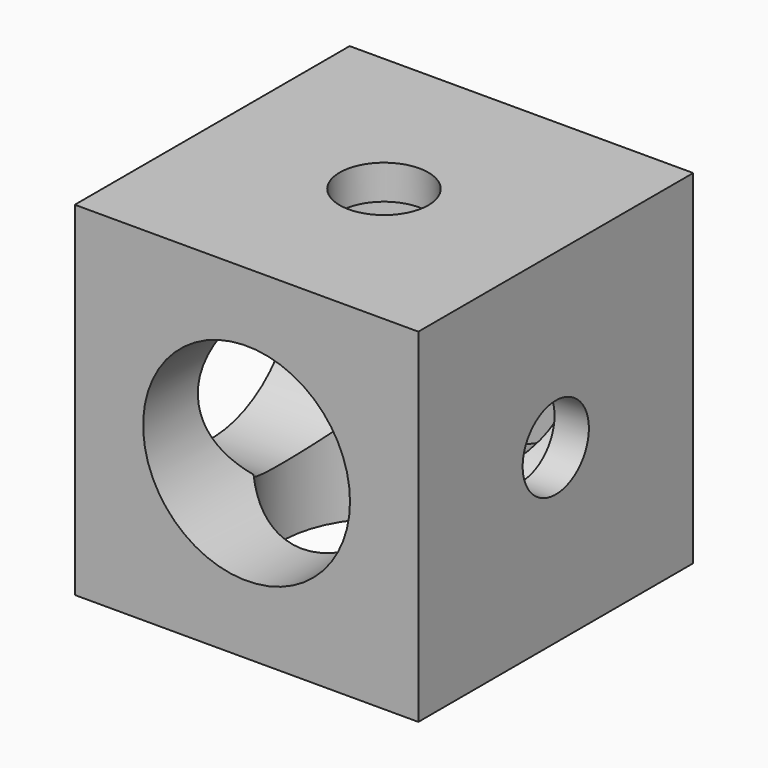
from build123d import *

# Parameters (mm, degrees)
SKETCH039_W     = 20
SKETCH039_H     = 20
PAD018_DEPTH    = 10
SKETCH040_R     = 5.966215
POCKET018_DEPTH = 18
SKETCH041_R     = 2.581292
POCKET019_DEPTH = 2
SKETCH042_R     = 6.020554
POCKET020_DEPTH = 18
SKETCH043_R     = 3.518198
POCKET021_DEPTH = 2
SKETCH044_R     = 6.023017
POCKET022_DEPTH = 18
SKETCH045_R     = 2.40921
POCKET023_DEPTH = 2


with BuildPart() as part:
    # Sketch039 → Pad018 (new body, symmetric)
    with BuildSketch(Plane.XY):
        Rectangle(SKETCH039_W, SKETCH039_H)
    extrude(amount=PAD018_DEPTH, both=True)

    # Sketch040 → Pocket018 (cut)
    with BuildSketch(Plane(origin=(0, 0, -10), x_dir=(1, 0, 0), z_dir=(0, 0, -1))):
        Circle(SKETCH040_R)
    extrude(amount=-POCKET018_DEPTH, mode=Mode.SUBTRACT)

    # Sketch041 → Pocket019 (cut)
    with BuildSketch(Plane.XY.offset(10)):
        Circle(SKETCH041_R)
    extrude(amount=-POCKET019_DEPTH, mode=Mode.SUBTRACT)

    # Sketch042 → Pocket020 (cut)
    with BuildSketch(Plane.XZ.offset(10)):
        Circle(SKETCH042_R)
    extrude(amount=-POCKET020_DEPTH, mode=Mode.SUBTRACT)

    # Sketch043 → Pocket021 (cut)
    with BuildSketch(Plane(origin=(0, 10, 0), x_dir=(-1, 0, 0), z_dir=(0, 1, 0))):
        Circle(SKETCH043_R)
    extrude(amount=-POCKET021_DEPTH, mode=Mode.SUBTRACT)

    # Sketch044 → Pocket022 (cut)
    with BuildSketch(Plane(origin=(-10, 0, 0), x_dir=(0, -1, 0), z_dir=(-1, 0, 0))):
        Circle(SKETCH044_R)
    extrude(amount=-POCKET022_DEPTH, mode=Mode.SUBTRACT)

    # Sketch045 → Pocket023 (cut)
    with BuildSketch(Plane.YZ.offset(10)):
        Circle(SKETCH045_R)
    extrude(amount=-POCKET023_DEPTH, mode=Mode.SUBTRACT)


solid = part.part
